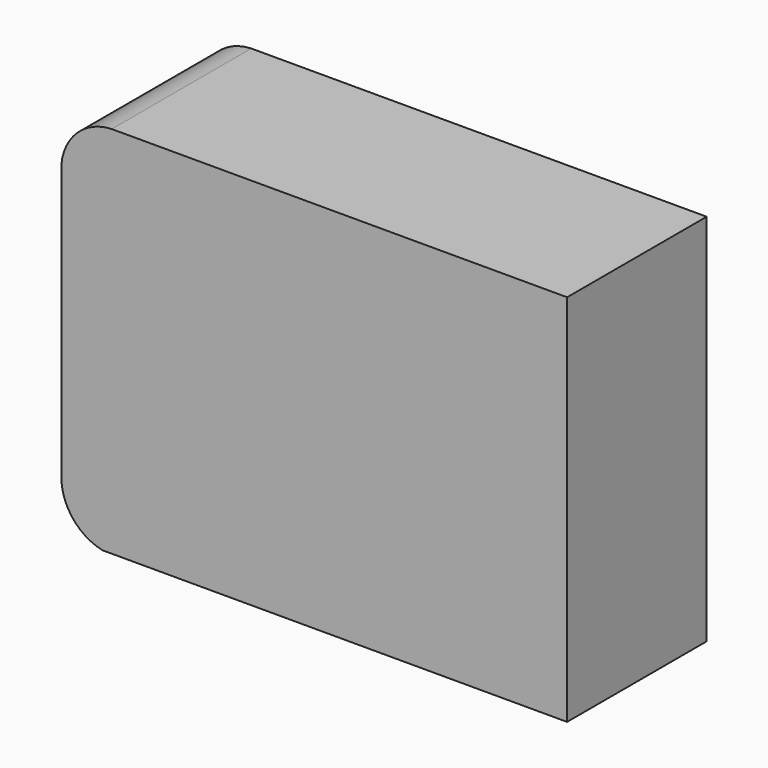
from build123d import *

# Parameters (mm, degrees)
F1_DEPTH = 25


with BuildPart() as f1:
    # F0 (on Front) → F1 (new body)
    with BuildSketch(Plane.XZ):
        with BuildLine():
            Line((5.897538, 0), (9.092009, 0))
            Line((9.092009, 0), (72.482146, 0))
            Line((72.482146, 0), (72.482146, 53.578634))
            Line((72.482146, 53.578634), (7.723739, 53.578634))
            Line((7.723739, 53.578634), (7.224049, 53.578634))
            ThreePointArc((7.224049, 53.578634), (2.305204, 51.517375), (0, 46.708025))
            Line((0, 46.708025), (0, 45.457568))
            Line((0, 45.457568), (0, 7.047996))
            ThreePointArc((0, 7.047996), (1.742842, 2.514917), (5.897538, 0))
        make_face()
    extrude(amount=F1_DEPTH)


solid = f1.part
